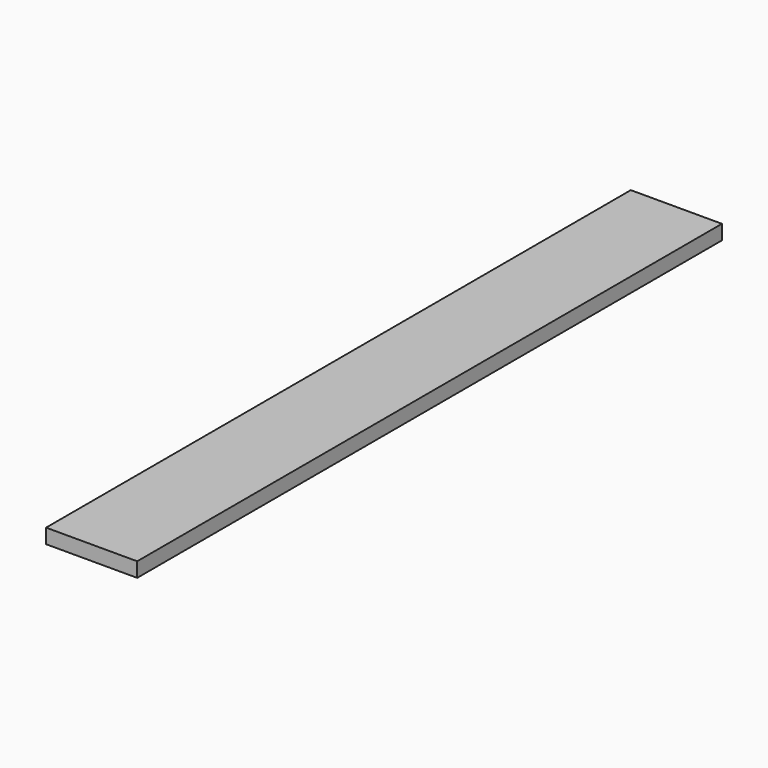
from build123d import *

# Parameters (mm, degrees)
BOX_W     = 18.7
BOX_H     = 150
BOX_DEPTH = 3


with BuildPart() as part:
    # Box → Box (new body)
    with BuildSketch(Plane.XY):
        with Locations((9.35, 75)):
            Rectangle(BOX_W, BOX_H)
    extrude(amount=BOX_DEPTH)


solid = part.part
